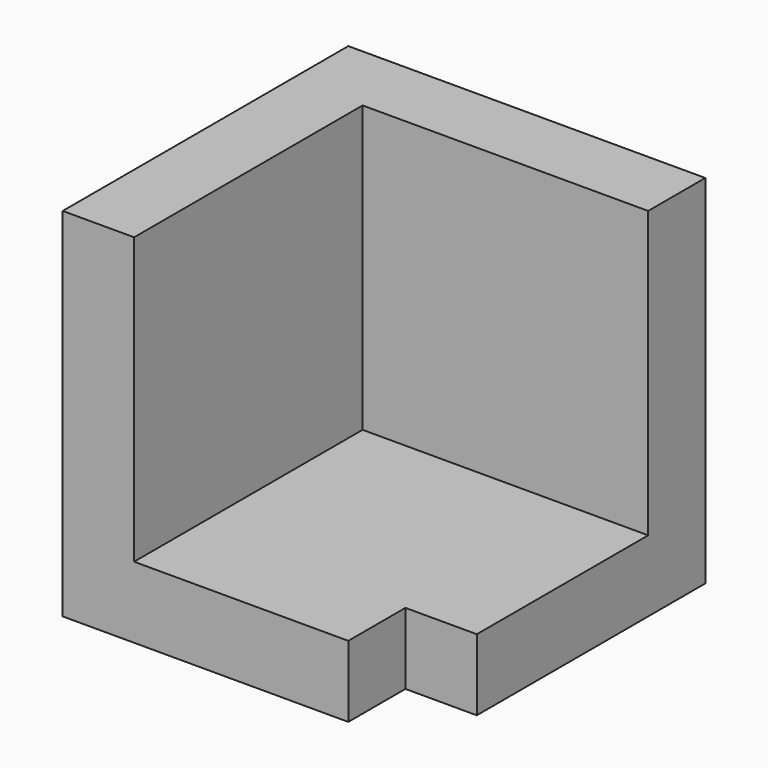
from build123d import *

# Parameters (mm, degrees)
F0_W     = 63.5
F0_H     = 63.5
F1_DEPTH = 12.7
F2_W     = 63.5
F2_H     = 12.7
F3_DEPTH = 50.8
F4_W     = 12.7
F4_H     = 50.8
F5_DEPTH = 50.8
F6_W     = 12.7
F6_H     = 12.7
F7_DEPTH = 25.4


with BuildPart() as f1:
    # F0 (on Top) → F1 (new body)
    with BuildSketch(Plane.XY):
        with Locations((31.75, -31.75)):
            Rectangle(F0_W, F0_H)
    extrude(amount=F1_DEPTH)

    # F2 (on face) → F3 (join)
    with BuildSketch(Plane.XY.offset(12.7)):
        with Locations((31.75, -6.35)):
            Rectangle(F2_W, F2_H)
    extrude(amount=F3_DEPTH)

    # F4 (on face) → F5 (join)
    with BuildSketch(Plane.XY.offset(12.7)):
        with Locations((6.35, -38.1)):
            Rectangle(F4_W, F4_H)
    extrude(amount=F5_DEPTH)

    # F6 (on face) → F7 (cut)
    with BuildSketch(Plane.XY.offset(12.7)):
        with Locations((57.15, -57.15)):
            Rectangle(F6_W, F6_H)
    extrude(amount=-F7_DEPTH, mode=Mode.SUBTRACT)


solid = f1.part
